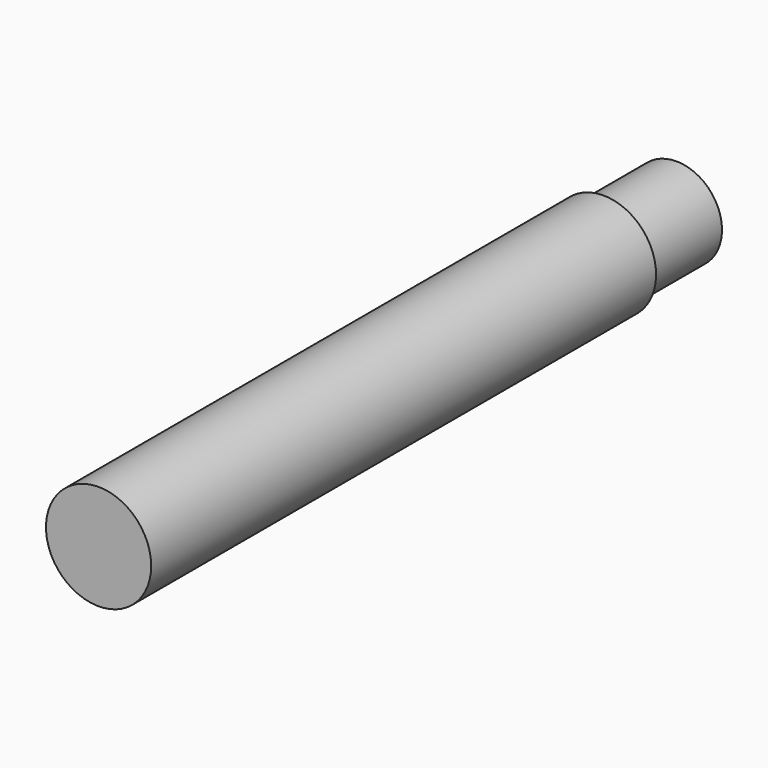
from build123d import *

# Parameters (mm, degrees)
F0_R     = 7.5
F1_DEPTH = 45
F2_R     = 6.5
F3_DEPTH = 13


with BuildPart() as f1:
    # F0 (on Front) → F1 (new body, symmetric)
    with BuildSketch(Plane.XZ):
        Circle(F0_R)
    extrude(amount=F1_DEPTH, both=True)

    # F2 (on face) → F3 (join)
    with BuildSketch(Plane(origin=(0, 45, 0), x_dir=(-1, 0, 0), z_dir=(0, 1, 0))):
        Circle(F2_R)
    extrude(amount=F3_DEPTH)


solid = f1.part
